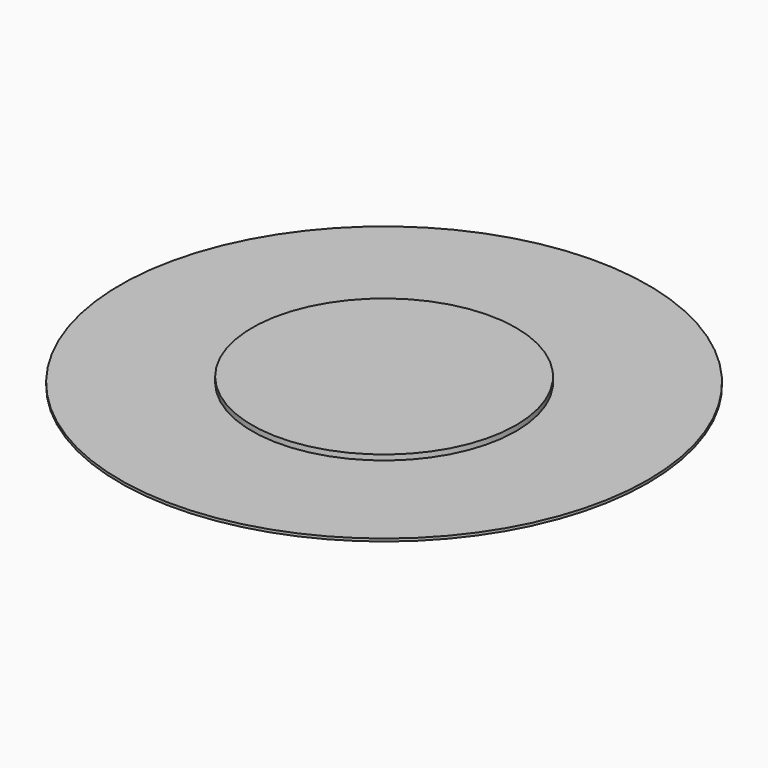
from build123d import *

# Parameters (mm, degrees)
CYLINDER001_R     = 1
CYLINDER001_DEPTH = 0.01
CYLINDER_R        = 0.5
CYLINDER_DEPTH    = 0.03


with BuildPart() as cylinder001:
    # Cylinder001 → Cylinder001 (new body)
    with BuildSketch(Plane.XY):
        Circle(CYLINDER001_R)
    extrude(amount=CYLINDER001_DEPTH)


with BuildPart() as fid100x200round:
    # Cylinder → Cylinder (new body)
    with BuildSketch(Plane.XY):
        Circle(CYLINDER_R)
    extrude(amount=CYLINDER_DEPTH)

    # Fusion: union Cylinder001
    add(cylinder001.part)


solid = fid100x200round.part
